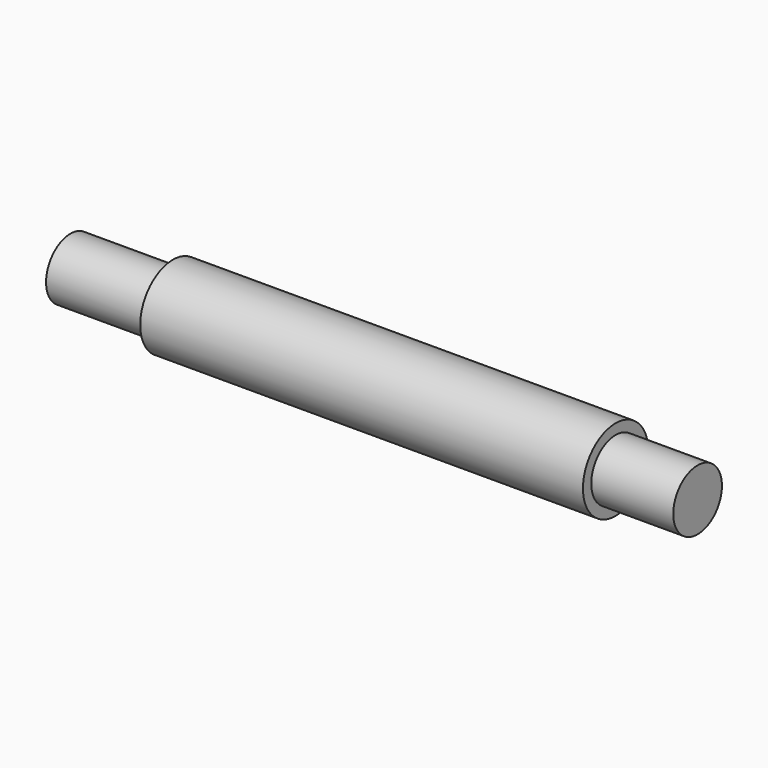
from build123d import *

# Parameters (mm, degrees)
F0_R     = 6.3246
F1_DEPTH = 68.58
F2_R     = 4.7117
F3_DEPTH = 12.7
F4_R     = 4.7117
F5_DEPTH = 15.875


with BuildPart() as f1:
    # F0 (on Right) → F1 (new body)
    with BuildSketch(Plane.YZ):
        Circle(F0_R)
    extrude(amount=F1_DEPTH)

    # F2 (on face) → F3 (join)
    with BuildSketch(Plane.YZ.offset(68.58)):
        Circle(F2_R)
    extrude(amount=F3_DEPTH)

    # F4 (on face) → F5 (join)
    with BuildSketch(Plane(origin=(0, 0, 0), x_dir=(0, -1, 0), z_dir=(-1, 0, 0))):
        Circle(F4_R)
    extrude(amount=F5_DEPTH)


solid = f1.part
